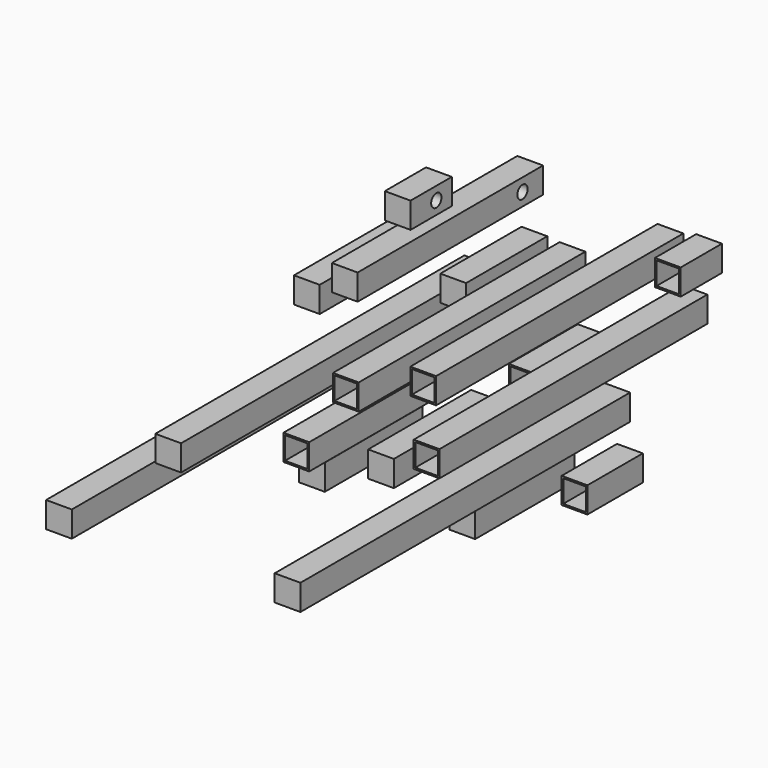
from build123d import *

# Parameters (mm, degrees)
F0_W      = 25.4
F0_H      = 25.4
F1_DEPTH  = 381
F2_W      = 25.4
F2_H      = 25.4
F2_W_2    = 22.225
F2_H_2    = 22.225
F3_DEPTH  = 279.4
F4_W      = 25.4
F4_H      = 25.4
F5_DEPTH  = 152.4
F6_W      = 228.6
F6_H      = 25.4
F6_R      = 6.35
F7_DEPTH  = 25.4
F8_W      = 50.8
F8_H      = 25.4
F8_R      = 6.35
F9_DEPTH  = 25.4
F10_W     = 25.4
F10_H     = 25.4
F11_DEPTH = 459.74
F12_W     = 25.4
F12_H     = 25.4
F13_DEPTH = 100.076
F14_W     = 25.4
F14_H     = 25.4
F15_DEPTH = 122.3264
F16_W     = 25.4
F16_H     = 25.4
F17_DEPTH = 120.5992
F18_W     = 25.4
F18_H     = 25.4
F19_DEPTH = 127
F20_W     = 25.4
F20_H     = 25.4
F21_DEPTH = 406.4
F22_W     = 25.4
F22_H     = 25.4
F22_W_2   = 22.225
F22_H_2   = 22.225
F23_DEPTH = 279.4
F24_W     = 25.4
F24_H     = 25.4
F24_W_2   = 22.225
F24_H_2   = 22.225
F25_DEPTH = 304.8
F26_W     = 25.4
F26_H     = 25.4
F26_W_2   = 22.225
F26_H_2   = 22.225
F27_DEPTH = 50.8
F28_W     = 25.4
F28_H     = 25.4
F28_W_2   = 22.225
F28_H_2   = 22.225
F29_DEPTH = 330.2
F30_W     = 25.4
F30_H     = 25.4
F30_W_2   = 22.225
F30_H_2   = 22.225
F31_DEPTH = 84.836
F32_W     = 25.4
F32_H     = 25.4
F32_W_2   = 22.225
F32_H_2   = 22.225
F33_DEPTH = 68.2625


with BuildPart() as f1:
    # F0 (on Front) → F1 (new body)
    with BuildSketch(Plane.XZ):
        with Locations((6.012416, -1.331083)):
            Rectangle(F0_W, F0_H)
    extrude(amount=F1_DEPTH)


with BuildPart() as f3:
    # F2 (on Front) → F3 (new body)
    with BuildSketch(Plane.XZ):
        with Locations((51.112667, -27.039096)):
            Rectangle(F2_W, F2_H)
        with Locations((51.112667, -27.039096)):
            Rectangle(F2_W_2, F2_H_2, mode=Mode.SUBTRACT)
    extrude(amount=F3_DEPTH)


with BuildPart() as f5:
    # F4 (on Front) → F5 (new body)
    with BuildSketch(Plane.XZ):
        with Locations((-40.122539, 28.319776)):
            Rectangle(F4_W, F4_H)
    extrude(amount=F5_DEPTH)


with BuildPart() as f7:
    # F6 (on Right) → F7 (new body)
    with BuildSketch(Plane.YZ):
        with Locations((-57.385214, 64.036405)):
            Rectangle(F6_W, F6_H)
        with Locations((31.514786, 64.036405)):
            Circle(F6_R, mode=Mode.SUBTRACT)
    extrude(amount=F7_DEPTH)


with BuildPart() as f9:
    # F8 (on Right) → F9 (new body)
    with BuildSketch(Plane.YZ):
        with Locations((-81.024057, 99.897847)):
            Rectangle(F8_W, F8_H)
        with Locations((-74.674057, 99.897847)):
            Circle(F8_R, mode=Mode.SUBTRACT)
    extrude(amount=F9_DEPTH)


with BuildPart() as f11:
    # F10 (on Front) → F11 (new body)
    with BuildSketch(Plane.XZ):
        with Locations((-38.722203, -41.346163)):
            Rectangle(F10_W, F10_H)
    extrude(amount=F11_DEPTH)


with BuildPart() as f13:
    # F12 (on Front) → F13 (new body)
    with BuildSketch(Plane.XZ):
        with Locations((62.380522, 41.878674)):
            Rectangle(F12_W, F12_H)
    extrude(amount=F13_DEPTH)


with BuildPart() as f15:
    # F14 (on Front) → F15 (new body)
    with BuildSketch(Plane.XZ):
        with Locations((89.140385, -137.282215)):
            Rectangle(F14_W, F14_H)
    extrude(amount=F15_DEPTH)


with BuildPart() as f17:
    # F16 (on Front) → F17 (new body)
    with BuildSketch(Plane.XZ):
        with Locations((-60.525931, -145.576701)):
            Rectangle(F16_W, F16_H)
    extrude(amount=F17_DEPTH)


with BuildPart() as f19:
    # F18 (on Front) → F19 (new body)
    with BuildSketch(Plane.XZ):
        with Locations((12.7, -115.983012)):
            Rectangle(F18_W, F18_H)
    extrude(amount=F19_DEPTH)


with BuildPart() as f21:
    # F20 (on Front) → F21 (new body)
    with BuildSketch(Plane.XZ):
        with Locations((144.062687, -67.233101)):
            Rectangle(F20_W, F20_H)
    extrude(amount=F21_DEPTH)


with BuildPart() as f23:
    # F22 (on Front) → F23 (new body)
    with BuildSketch(Plane.XZ):
        with Locations((99.933479, 40.732481)):
            Rectangle(F22_W, F22_H)
        with Locations((99.933479, 40.732481)):
            Rectangle(F22_W_2, F22_H_2, mode=Mode.SUBTRACT)
    extrude(amount=F23_DEPTH)


with BuildPart() as f25:
    # F24 (on Front) → F25 (new body)
    with BuildSketch(Plane.XZ):
        with Locations((196.544535, 87.954864)):
            Rectangle(F24_W, F24_H)
        with Locations((196.544535, 87.954864)):
            Rectangle(F24_W_2, F24_H_2, mode=Mode.SUBTRACT)
    extrude(amount=F25_DEPTH)


with BuildPart() as f27:
    # F26 (on Front) → F27 (new body)
    with BuildSketch(Plane.XZ):
        with Locations((234.632495, 91.471016)):
            Rectangle(F26_W, F26_H)
        with Locations((234.632495, 91.471016)):
            Rectangle(F26_W_2, F26_H_2, mode=Mode.SUBTRACT)
    extrude(amount=F27_DEPTH)


with BuildPart() as f29:
    # F28 (on Front) → F29 (new body)
    with BuildSketch(Plane.XZ):
        with Locations((220.217026, 42.579796)):
            Rectangle(F28_W, F28_H)
        with Locations((220.217026, 42.579796)):
            Rectangle(F28_W_2, F28_H_2, mode=Mode.SUBTRACT)
    extrude(amount=F29_DEPTH)


with BuildPart() as f31:
    # F30 (on Front) → F31 (new body)
    with BuildSketch(Plane.XZ):
        with Locations((117.779925, -24.751918)):
            Rectangle(F30_W, F30_H)
        with Locations((117.779925, -24.751918)):
            Rectangle(F30_W_2, F30_H_2, mode=Mode.SUBTRACT)
    extrude(amount=F31_DEPTH)


with BuildPart() as f33:
    # F32 (on Front) → F33 (new body)
    with BuildSketch(Plane.XZ):
        with Locations((156.584144, -115.978435)):
            Rectangle(F32_W, F32_H)
        with Locations((156.584144, -115.978435)):
            Rectangle(F32_W_2, F32_H_2, mode=Mode.SUBTRACT)
    extrude(amount=F33_DEPTH)


solid = Compound([f1.part, f3.part, f5.part, f7.part, f9.part, f11.part, f13.part, f15.part, f17.part, f19.part, f21.part, f23.part, f25.part, f27.part, f29.part, f31.part, f33.part])
